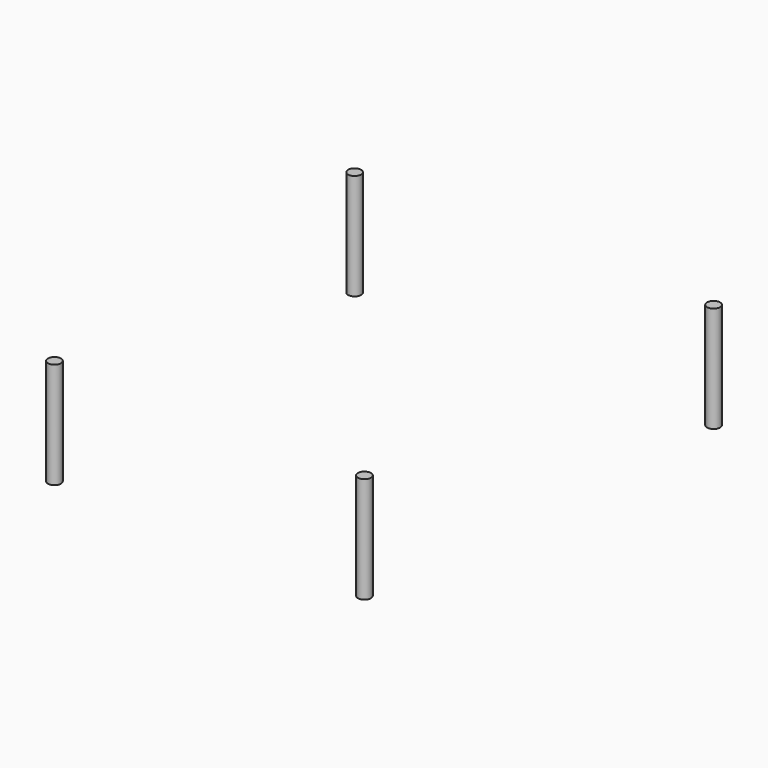
from build123d import *

# Parameters (mm, degrees)
CYLINDER096_R     = 1.6
CYLINDER096_DEPTH = 26
CYLINDER097_R     = 1.6
CYLINDER097_DEPTH = 26
CYLINDER098_R     = 1.6
CYLINDER098_DEPTH = 26
CYLINDER095_R     = 1.6
CYLINDER095_DEPTH = 26


with BuildPart() as cylinder098:
    # Cylinder096 → Cylinder096 (new body)
    with BuildSketch(Plane(origin=(32, 8, 0), x_dir=(1, 0, 0), z_dir=(0, 0, 1))):
        Circle(CYLINDER096_R)
    extrude(amount=CYLINDER096_DEPTH)


with BuildPart() as cylinder099:
    # Cylinder097 → Cylinder097 (new body)
    with BuildSketch(Plane(origin=(116, 105, 0), x_dir=(1, 0, 0), z_dir=(0, 0, 1))):
        Circle(CYLINDER097_R)
    extrude(amount=CYLINDER097_DEPTH)


with BuildPart() as cylinder100:
    # Cylinder098 → Cylinder098 (new body)
    with BuildSketch(Plane(origin=(28, 105, 0), x_dir=(1, 0, 0), z_dir=(0, 0, 1))):
        Circle(CYLINDER098_R)
    extrude(amount=CYLINDER098_DEPTH)


with BuildPart() as bottomcuts:
    # Cylinder095 → Cylinder095 (new body)
    with BuildSketch(Plane(origin=(108, 8, 0), x_dir=(1, 0, 0), z_dir=(0, 0, 1))):
        Circle(CYLINDER095_R)
    extrude(amount=CYLINDER095_DEPTH)

    # Fusion045: union Cylinder098, Cylinder099, Cylinder100
    add(cylinder098.part)
    add(cylinder099.part)
    add(cylinder100.part)


solid = bottomcuts.part
